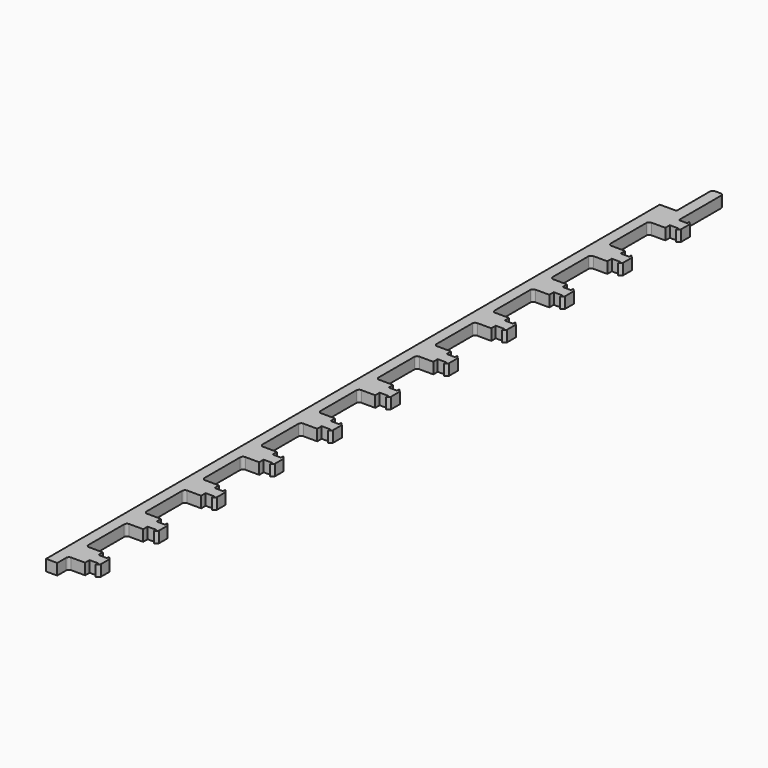
from build123d import *

# Parameters (mm, degrees)
F1_DEPTH = 2


with BuildPart() as f1:
    # F0 (on Top) → F1 (new body)
    with BuildSketch(Plane.XY):
        with BuildLine():
            Line((-167, 135.5), (-167, 137.5))
            Line((-167, 137.5), (-169, 137.5))
            Line((-169, 137.5), (-172, 137.5))
            Line((-172, 137.5), (-172, 0))
            Line((-172, 0), (-170, 0))
            Line((-170, 0), (-170, 2))
            ThreePointArc((-170, 2), (-169.853553, 2.353553), (-169.5, 2.5))
            Line((-169.5, 2.5), (-167, 2.5))
            Line((-167, 2.5), (-167, 3.5))
            Line((-167, 3.5), (-167, 5.5))
            Line((-167, 5.5), (-167, 6.5))
            Line((-167, 6.5), (-169.5, 6.5))
            ThreePointArc((-169.5, 6.5), (-169.853553, 6.646447), (-170, 7))
            Line((-170, 7), (-170, 15))
            ThreePointArc((-170, 15), (-169.853553, 15.353553), (-169.5, 15.5))
            Line((-169.5, 15.5), (-167, 15.5))
            Line((-167, 15.5), (-167, 16.5))
            Line((-167, 16.5), (-167, 18.5))
            Line((-167, 18.5), (-167, 19.5))
            Line((-167, 19.5), (-169.5, 19.5))
            ThreePointArc((-169.5, 19.5), (-169.853553, 19.646447), (-170, 20))
            Line((-170, 20), (-170, 28))
            ThreePointArc((-170, 28), (-169.853553, 28.353553), (-169.5, 28.5))
            Line((-169.5, 28.5), (-167, 28.5))
            Line((-167, 28.5), (-167, 29.5))
            Line((-167, 29.5), (-167, 31.5))
            Line((-167, 31.5), (-167, 32.5))
            Line((-167, 32.5), (-169.5, 32.5))
            ThreePointArc((-169.5, 32.5), (-169.853553, 32.646447), (-170, 33))
            Line((-170, 33), (-170, 41))
            ThreePointArc((-170, 41), (-169.853553, 41.353553), (-169.5, 41.5))
            Line((-169.5, 41.5), (-167, 41.5))
            Line((-167, 41.5), (-167, 42.5))
            Line((-167, 42.5), (-167, 44.5))
            Line((-167, 44.5), (-167, 45.5))
            Line((-167, 45.5), (-169.5, 45.5))
            ThreePointArc((-169.5, 45.5), (-169.853553, 45.646447), (-170, 46))
            Line((-170, 46), (-170, 54))
            ThreePointArc((-170, 54), (-169.853553, 54.353553), (-169.5, 54.5))
            Line((-169.5, 54.5), (-167, 54.5))
            Line((-167, 54.5), (-167, 55.5))
            Line((-167, 55.5), (-167, 57.5))
            Line((-167, 57.5), (-167, 58.5))
            Line((-167, 58.5), (-169.5, 58.5))
            ThreePointArc((-169.5, 58.5), (-169.853553, 58.646447), (-170, 59))
            Line((-170, 59), (-170, 67))
            ThreePointArc((-170, 67), (-169.853553, 67.353553), (-169.5, 67.5))
            Line((-169.5, 67.5), (-167, 67.5))
            Line((-167, 67.5), (-167, 68.5))
            Line((-167, 68.5), (-167, 70.5))
            Line((-167, 70.5), (-167, 71.5))
            Line((-167, 71.5), (-169.5, 71.5))
            ThreePointArc((-169.5, 71.5), (-169.853553, 71.646447), (-170, 72))
            Line((-170, 72), (-170, 80))
            ThreePointArc((-170, 80), (-169.853553, 80.353553), (-169.5, 80.5))
            Line((-169.5, 80.5), (-167, 80.5))
            Line((-167, 80.5), (-167, 81.5))
            Line((-167, 81.5), (-167, 83.5))
            Line((-167, 83.5), (-167, 84.5))
            Line((-167, 84.5), (-169.5, 84.5))
            ThreePointArc((-169.5, 84.5), (-169.853553, 84.646447), (-170, 85))
            Line((-170, 85), (-170, 93))
            ThreePointArc((-170, 93), (-169.853553, 93.353553), (-169.5, 93.5))
            Line((-169.5, 93.5), (-167, 93.5))
            Line((-167, 93.5), (-167, 94.5))
            Line((-167, 94.5), (-167, 96.5))
            Line((-167, 96.5), (-167, 97.5))
            Line((-167, 97.5), (-169.5, 97.5))
            ThreePointArc((-169.5, 97.5), (-169.853553, 97.646447), (-170, 98))
            Line((-170, 98), (-170, 106))
            ThreePointArc((-170, 106), (-169.853553, 106.353553), (-169.5, 106.5))
            Line((-169.5, 106.5), (-167, 106.5))
            Line((-167, 106.5), (-167, 107.5))
            Line((-167, 107.5), (-167, 109.5))
            Line((-167, 109.5), (-167, 110.5))
            Line((-167, 110.5), (-169.5, 110.5))
            ThreePointArc((-169.5, 110.5), (-169.853553, 110.646447), (-170, 111))
            Line((-170, 111), (-170, 119))
            ThreePointArc((-170, 119), (-169.853553, 119.353553), (-169.5, 119.5))
            Line((-169.5, 119.5), (-167, 119.5))
            Line((-167, 119.5), (-167, 120.5))
            Line((-167, 120.5), (-167, 122.5))
            Line((-167, 122.5), (-167, 123.5))
            Line((-167, 123.5), (-169.5, 123.5))
            ThreePointArc((-169.5, 123.5), (-169.853553, 123.646447), (-170, 124))
            Line((-170, 124), (-170, 132))
            ThreePointArc((-170, 132), (-169.853553, 132.353553), (-169.5, 132.5))
            Line((-169.5, 132.5), (-167, 132.5))
            Line((-167, 132.5), (-167, 133.5))
            Line((-167, 133.5), (-167, 135.5))
        make_face()
        Polygon((-167, 5.5), (-167, 3.5), (-165.5, 3.5), (-165.5, 3), (-165, 3.5), (-165, 5.5), (-165.5, 6), (-165.5, 5.5), align=None)
        Polygon((-167, 18.5), (-167, 16.5), (-165.5, 16.5), (-165.5, 16), (-165, 16.5), (-165, 18.5), (-165.5, 19), (-165.5, 18.5), align=None)
        Polygon((-167, 31.5), (-167, 29.5), (-165.5, 29.5), (-165.5, 29), (-165, 29.5), (-165, 31.5), (-165.5, 32), (-165.5, 31.5), align=None)
        Polygon((-167, 44.5), (-167, 42.5), (-165.5, 42.5), (-165.5, 42), (-165, 42.5), (-165, 44.5), (-165.5, 45), (-165.5, 44.5), align=None)
        Polygon((-167, 57.5), (-167, 55.5), (-165.5, 55.5), (-165.5, 55), (-165, 55.5), (-165, 57.5), (-165.5, 58), (-165.5, 57.5), align=None)
        Polygon((-165.5, 70.5), (-167, 70.5), (-167, 68.5), (-165.5, 68.5), (-165.5, 68), (-165, 68.5), (-165, 70.5), (-165.5, 71), align=None)
        Polygon((-165.5, 83.5), (-167, 83.5), (-167, 81.5), (-165.5, 81.5), (-165.5, 81), (-165, 81.5), (-165, 83.5), (-165.5, 84), align=None)
        Polygon((-165.5, 96.5), (-167, 96.5), (-167, 94.5), (-165.5, 94.5), (-165.5, 94), (-165, 94.5), (-165, 96.5), (-165.5, 97), align=None)
        Polygon((-165.5, 109.5), (-167, 109.5), (-167, 107.5), (-165.5, 107.5), (-165.5, 107), (-165, 107.5), (-165, 109.5), (-165.5, 110), align=None)
        Polygon((-165.5, 122.5), (-167, 122.5), (-167, 120.5), (-165.5, 120.5), (-165.5, 120), (-165, 120.5), (-165, 122.5), (-165.5, 123), align=None)
        Polygon((-165.5, 135.5), (-167, 135.5), (-167, 133.5), (-165.5, 133.5), (-165.5, 133), (-165, 133.5), (-165, 135.5), (-165.5, 136), align=None)
        with BuildLine():
            Line((-169, 137.5), (-167, 137.5))
            Line((-167, 137.5), (-167, 145))
            ThreePointArc((-167, 145), (-167.146447, 145.353553), (-167.5, 145.5))
            Line((-167.5, 145.5), (-168.5, 145.5))
            ThreePointArc((-168.5, 145.5), (-168.853553, 145.353553), (-169, 145))
            Line((-169, 145), (-169, 137.5))
        make_face()
    extrude(amount=F1_DEPTH)


solid = f1.part
